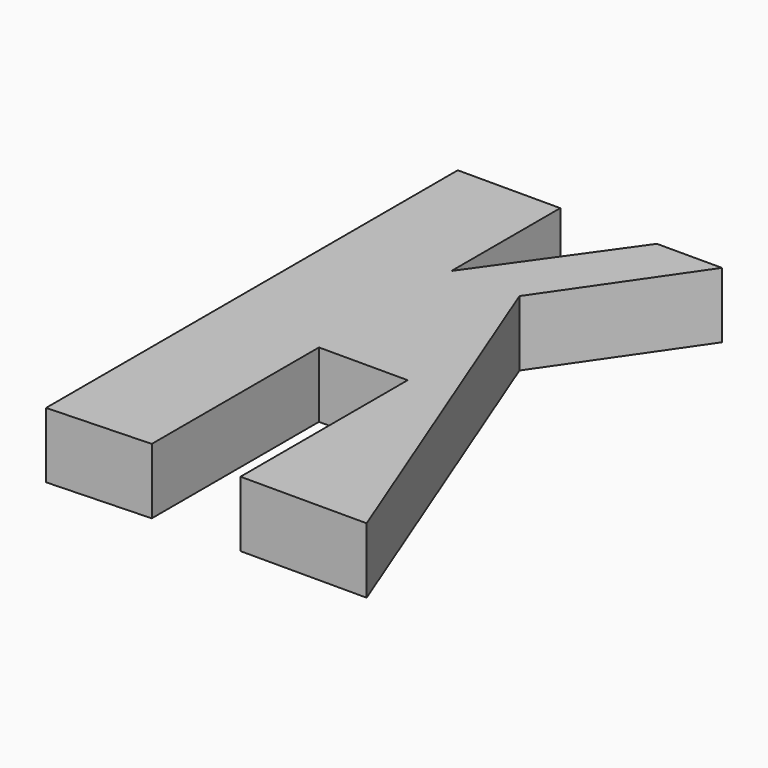
from build123d import *

# Parameters (mm, degrees)
F1_DEPTH = 10


with BuildPart() as f1:
    # F0 (on Top) → F1 (new body)
    with BuildSketch(Plane.XY):
        Polygon((-10.377238, 43.764871), (-26.01829, 43.764871), (-26.01829, -34.741186), (-10.377238, -34.139607), (-10.377238, -2.255921), (3.158292, -2.255921), (3.158292, -34.139607), (22.408813, -34.139607), (0, 23.010395), (14.2875, 43.764871), (4.36145, 43.764871), (-10.377238, 23.010395), align=None)
    extrude(amount=-F1_DEPTH)


solid = f1.part
